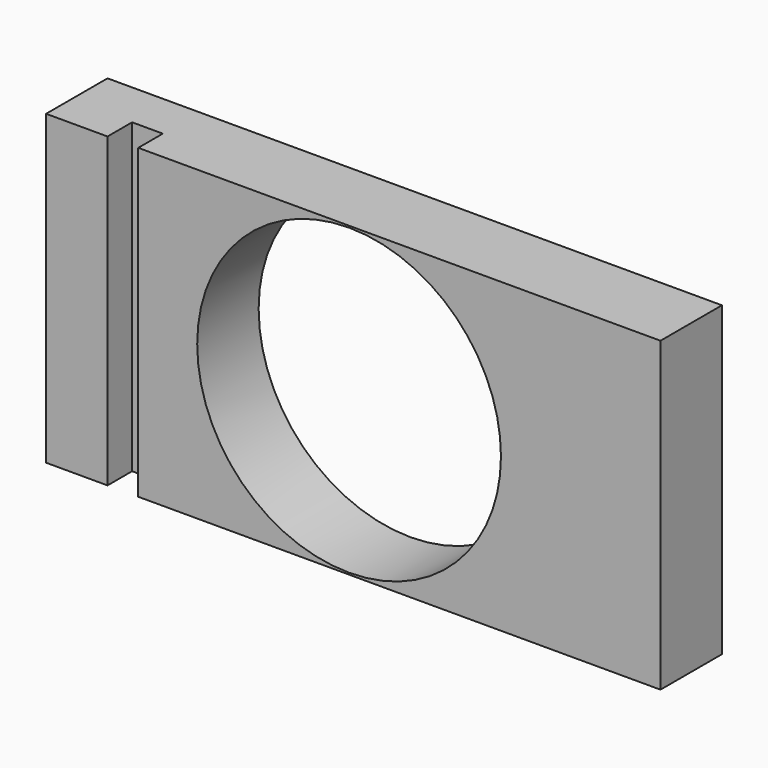
from build123d import *

# Parameters (mm, degrees)
F0_W     = 200
F0_H     = 100
F0_R     = 49.439426
F1_DEPTH = 25
F2_W     = 10
F2_H     = 100
F3_DEPTH = 10


with BuildPart() as f1:
    # F0 (on Front) → F1 (new body)
    with BuildSketch(Plane.XZ):
        with Locations((1.368772, 0)):
            Rectangle(F0_W, F0_H)
        Circle(F0_R, mode=Mode.SUBTRACT)
    extrude(amount=F1_DEPTH)

    # F2 (on face) → F3 (cut)
    with BuildSketch(Plane.XZ.offset(25)):
        with Locations((-73.631228, 0)):
            Rectangle(F2_W, F2_H)
    extrude(amount=-F3_DEPTH, mode=Mode.SUBTRACT)


solid = f1.part
